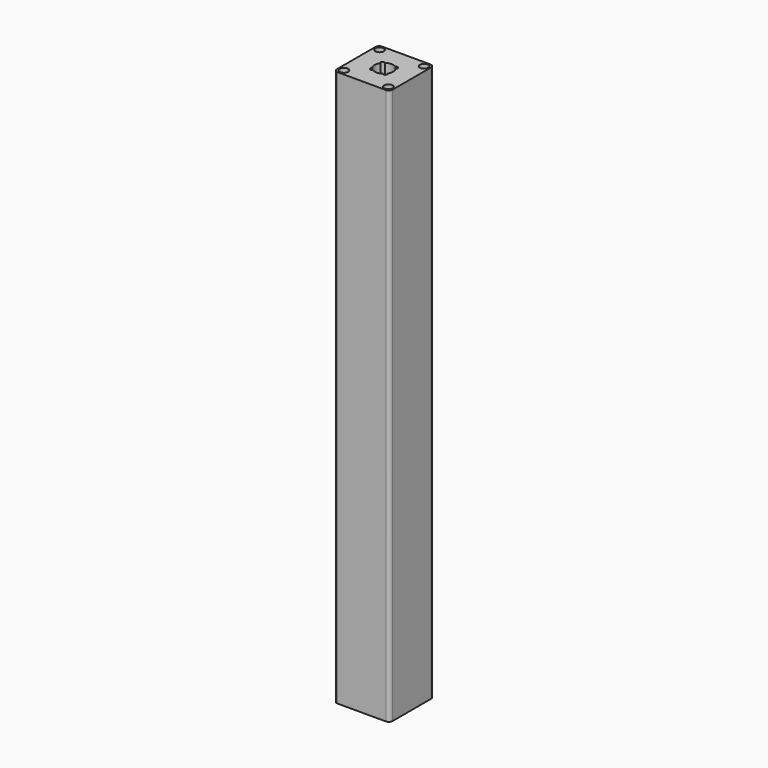
from build123d import *

# Parameters (mm, degrees)
F0_W     = 30
F0_H     = 30
F0_R     = 2.25
F1_DEPTH = 300
F2_R     = 2


with BuildPart() as f1:
    # F0 (on Top) → F1 (new body)
    with BuildSketch(Plane.XY):
        Rectangle(F0_W, F0_H)
        with Locations((-12, -12)):
            Circle(F0_R, mode=Mode.SUBTRACT)
        with Locations((12, -12)):
            Circle(F0_R, mode=Mode.SUBTRACT)
        with Locations((-12, 12)):
            Circle(F0_R, mode=Mode.SUBTRACT)
        with BuildLine():
            ThreePointArc((4.168386, 2.761261), (5, 0), (4.168386, -2.761261))
            ThreePointArc((4.168386, -2.761261), (4.242641, -4.242641), (2.761261, -4.168386))
            ThreePointArc((2.761261, -4.168386), (0, -5), (-2.761261, -4.168386))
            ThreePointArc((-2.761261, -4.168386), (-4.242641, -4.242641), (-4.168386, -2.761261))
            ThreePointArc((-4.168386, -2.761261), (-5, 0), (-4.168386, 2.761261))
            ThreePointArc((-4.168386, 2.761261), (-4.242641, 4.242641), (-2.761261, 4.168386))
            ThreePointArc((-2.761261, 4.168386), (0, 5), (2.761261, 4.168386))
            ThreePointArc((2.761261, 4.168386), (4.242641, 4.242641), (4.168386, 2.761261))
        make_face(mode=Mode.SUBTRACT)
        with Locations((12, 12)):
            Circle(F0_R, mode=Mode.SUBTRACT)
    extrude(amount=F1_DEPTH)

    # F2
    f2_edges = [f1.edges().sort_by_distance(p)[0] for p in [
        (15, 15, 150),
        (-15, 15, 150),
        (-15, -15, 150),
        (15, -15, 150),
    ]]
    fillet(f2_edges, radius=F2_R)


solid = f1.part
